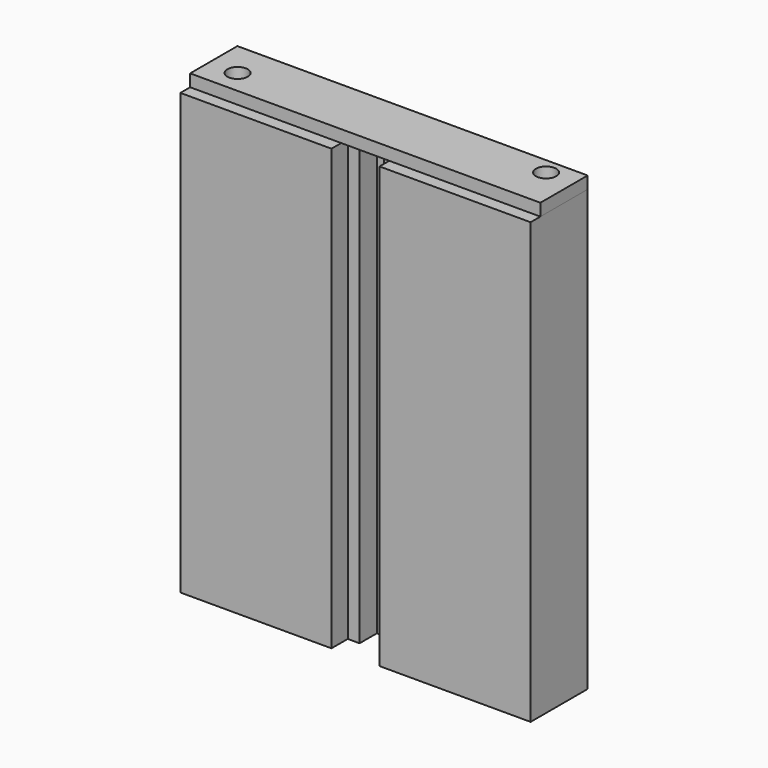
from build123d import *

# Parameters (mm, degrees)
F0_R     = 2.5
F0_W     = 2.9
F0_H     = 2
F0_W_2   = 6
F0_H_2   = 5.3
F1_DEPTH = 3
F0_W_3   = 37.1
F0_H_3   = 3
F0_R_2   = 1.7
F2_DEPTH = 108
F3_DEPTH = 20


with BuildPart() as f1:
    # F0 (on Top) → F1 (new body)
    with BuildSketch(Plane.XY):
        Polygon((5.9, -7.25), (43, -7.25), (43, 7.25), (-43, 7.25), (-43, -7.25), (-5.9, -7.25), (-5.9, -5.25), (-3, -5.25), (-3, 0.05), (3, 0.05), (3, -5.25), (5.9, -5.25), align=None)
        with Locations((-36, -1.45)):
            Circle(F0_R, mode=Mode.SUBTRACT)
        with Locations((36, 3.25)):
            Circle(F0_R, mode=Mode.SUBTRACT)
        with Locations((-4.45, -6.25)):
            Rectangle(F0_W, F0_H)
        with Locations((0, -6.25)):
            Rectangle(F0_W_2, F0_H)
        with Locations((0, -2.6)):
            Rectangle(F0_W_2, F0_H_2)
        with Locations((4.45, -6.25)):
            Rectangle(F0_W, F0_H)
    extrude(amount=F1_DEPTH)


with BuildPart() as f2:
    # F0 (on Top) → F2 (new body)
    with BuildSketch(Plane.XY):
        Polygon((5.9, -7.25), (43, -7.25), (43, 7.25), (-43, 7.25), (-43, -7.25), (-5.9, -7.25), (-5.9, -5.25), (-3, -5.25), (-3, 0.05), (3, 0.05), (3, -5.25), (5.9, -5.25), align=None)
        with Locations((-36, -1.45)):
            Circle(F0_R, mode=Mode.SUBTRACT)
        with Locations((36, 3.25)):
            Circle(F0_R, mode=Mode.SUBTRACT)
        with Locations((-24.45, -8.75)):
            Rectangle(F0_W_3, F0_H_3)
        with Locations((24.45, -8.75)):
            Rectangle(F0_W_3, F0_H_3)
        with Locations((-36, -1.45)):
            Circle(F0_R)
        with Locations((-36, -1.45)):
            Circle(F0_R_2, mode=Mode.SUBTRACT)
        with Locations((36, 3.25)):
            Circle(F0_R)
        with Locations((36, 3.25)):
            Circle(F0_R_2, mode=Mode.SUBTRACT)
        with Locations((36, 3.25)):
            Circle(F0_R_2)
        with Locations((-36, -1.45)):
            Circle(F0_R_2)
    extrude(amount=-F2_DEPTH)

    # F0 (on Top) → F3 (cut)
    with BuildSketch(Plane.XY):
        with Locations((-36, -1.45)):
            Circle(F0_R_2)
        with Locations((36, 3.25)):
            Circle(F0_R_2)
    extrude(amount=-F3_DEPTH, mode=Mode.SUBTRACT)


solid = Compound([f1.part, f2.part])
